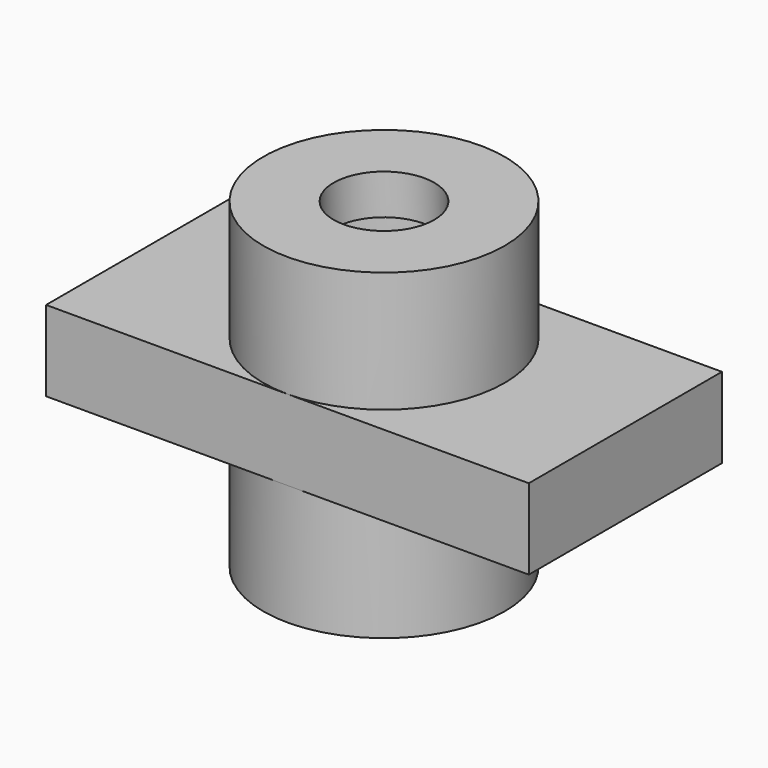
from build123d import *

# Parameters (mm, degrees)
F0_W          = 76.2
F0_H          = 38.1
F1_DEPTH      = 12.7
F2_R          = 19.05
F3_DEPTH      = 19.05
F4_R          = 19.05
F5_DEPTH      = 19.05
F6_R          = 7.9375
F7_DEPTH      = 19.051
F7_DEPTH_BACK = 31.751
F9_START      = -6.35
F8_R          = 14.9225
F8_R_2        = 7.9375
F9_DEPTH      = 6.35


with BuildPart() as f1:
    # F0 (on Top) → F1 (new body)
    with BuildSketch(Plane.XY):
        with Locations((38.1, 19.05)):
            Rectangle(F0_W, F0_H)
    extrude(amount=F1_DEPTH)

    # F2 (on face) → F3 (join)
    with BuildSketch(Plane.XY.offset(12.7)):
        with Locations((38.1, 19.05)):
            Circle(F2_R)
    extrude(amount=F3_DEPTH)

    # F4 (on face) → F5 (join)
    with BuildSketch(Plane(origin=(0, 0, 0), x_dir=(1, 0, 0), z_dir=(0, 0, -1))):
        with Locations((38.1, -19.05)):
            Circle(F4_R)
    extrude(amount=F5_DEPTH)

    # F6 (on Top) → F7 (cut, two sides)
    with BuildSketch(Plane.XY) as f7_sk:
        with Locations((38.1, 19.05)):
            Circle(F6_R)
    extrude(amount=-F7_DEPTH, mode=Mode.SUBTRACT)
    extrude(f7_sk.sketch, amount=F7_DEPTH_BACK, mode=Mode.SUBTRACT)

    # F8 (on face) → F9 (cut)
    with BuildSketch(Plane.XY.offset(31.75).offset(F9_START)):
        with Locations((38.1, 19.05)):
            Circle(F8_R)
        with Locations((38.1, 19.05)):
            Circle(F8_R_2, mode=Mode.SUBTRACT)
    extrude(amount=-F9_DEPTH, mode=Mode.SUBTRACT)


solid = f1.part
